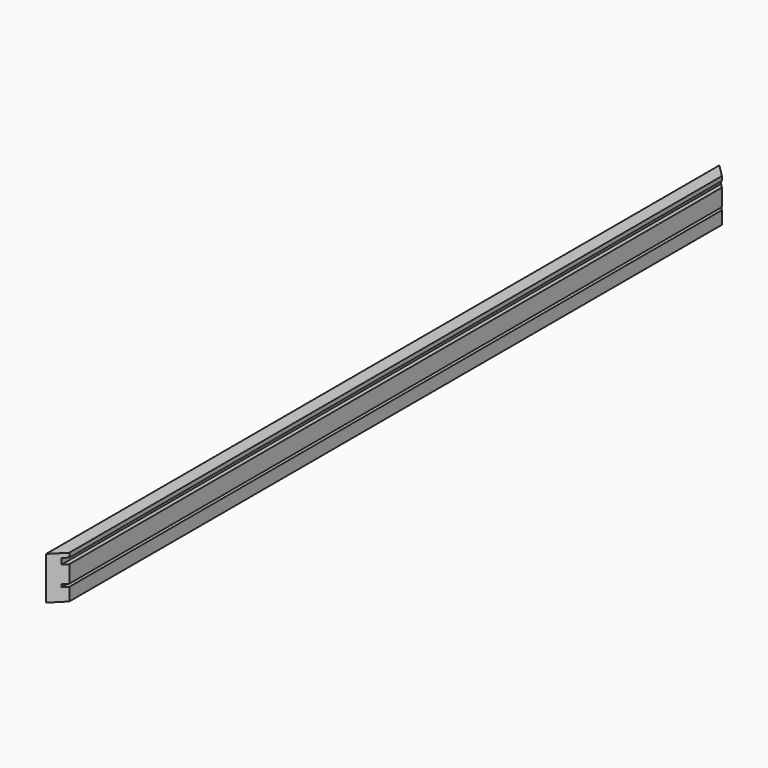
from build123d import *

# Parameters (mm, degrees)
F1_DEPTH = 1244.6
F3_DEPTH = 63.5


with BuildPart() as f1:
    # F0 (on Front) → F1 (new body)
    with BuildSketch(Plane.XZ):
        Polygon((19.05, 63.5), (0, 63.5), (0, 0), (19.05, 0), (19.05, 19.05), (12.7, 19.05), (12.7, 23.114), (19.05, 23.114), (19.05, 48.514), (12.7, 48.514), (12.7, 57.15), (19.05, 57.15), align=None)
    extrude(amount=F1_DEPTH)

    # F2 (on face) → F3 (cut)
    with BuildSketch(Plane.XY.offset(63.5)):
        Polygon((19.05, -1244.6), (19.05, -1225.55), (0, -1244.6), align=None)
        Polygon((19.05, 0), (0, 0), (19.05, -19.05), align=None)
    extrude(amount=-F3_DEPTH, mode=Mode.SUBTRACT)


solid = f1.part
